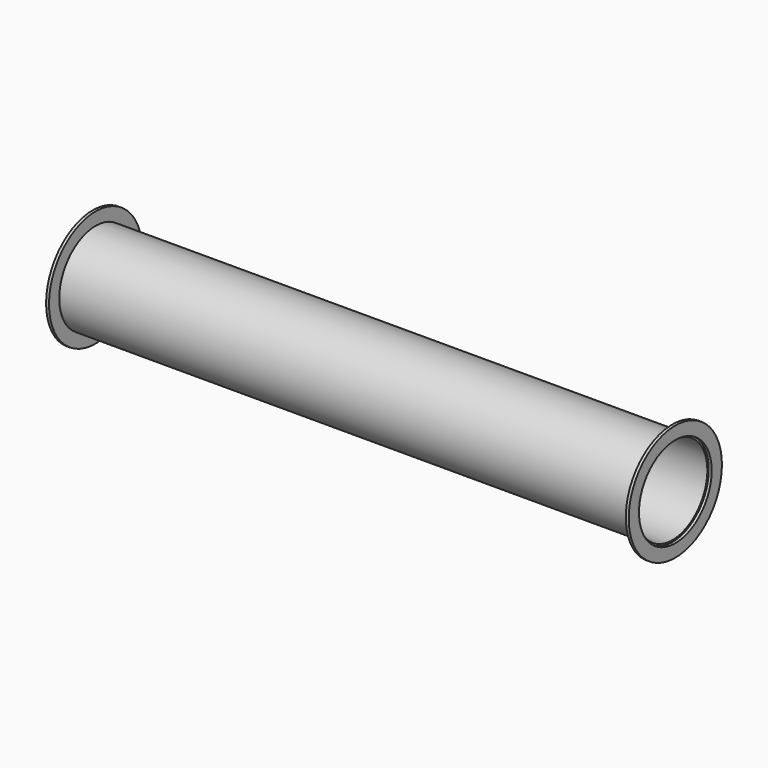
from build123d import *

# Parameters (mm, degrees)
F0_W     = 990
F0_H     = 3
F2_R     = 100
F2_R_2   = 78
F3_DEPTH = 5
F4_R     = 100
F4_R_2   = 78
F5_DEPTH = 5


with BuildPart() as f1:
    # F0 (on Front) → F1 (revolve)
    with BuildSketch(Plane.XZ):
        with Locations((-495, 76.5)):
            Rectangle(F0_W, F0_H)
    revolve(axis=Axis((-495, 0, 0), (-1, 0, 0)))


with BuildPart() as f3:
    # F2 (on face) → F3 (new body)
    with BuildSketch(Plane(origin=(-990, 0, 0), x_dir=(0, -1, 0), z_dir=(-1, 0, 0))):
        Circle(F2_R)
        Circle(F2_R_2, mode=Mode.SUBTRACT)
    extrude(amount=F3_DEPTH)


with BuildPart() as f5:
    # F4 (on face) → F5 (new body)
    with BuildSketch(Plane.YZ):
        Circle(F4_R)
        Circle(F4_R_2, mode=Mode.SUBTRACT)
    extrude(amount=F5_DEPTH)


solid = Compound([f1.part, f3.part, f5.part])
